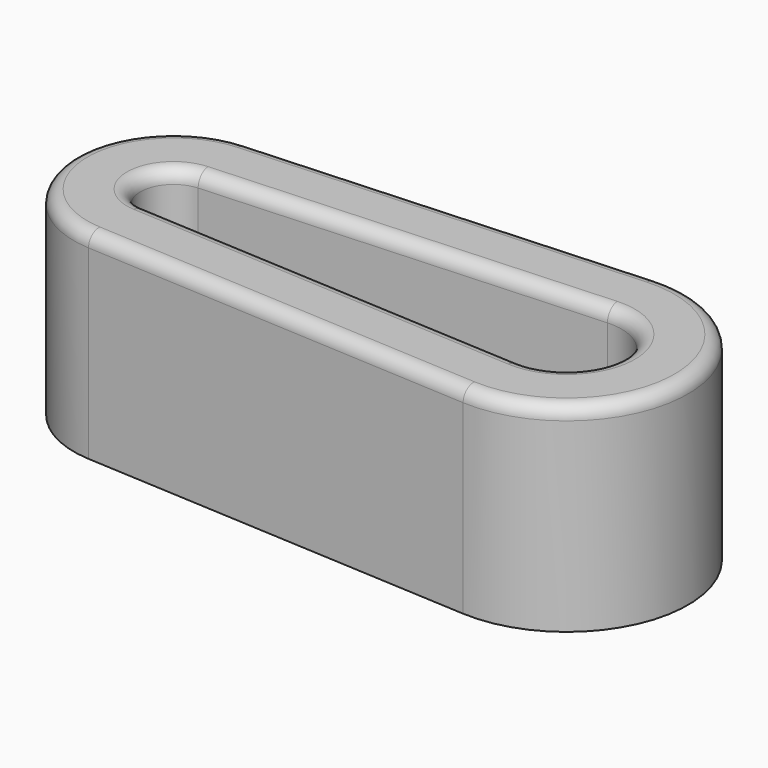
from build123d import *

# Parameters (mm, degrees)
F1_DEPTH = 30
F3_DEPTH = 30
F4_R     = 2


with BuildPart() as f1:
    # F0 (on Top) → F1 (new body)
    with BuildSketch(Plane.XY):
        with BuildLine():
            Line((14.632652, 18.249727), (-44.452963, 14.977043))
            ThreePointArc((-44.452963, 14.977043), (-58.623402, 0), (-44.452963, -14.977043))
            Line((-44.452963, -14.977043), (14.632652, -18.249727))
            ThreePointArc((14.632652, -18.249727), (33.921183, 0), (14.632652, 18.249727))
        make_face()
    extrude(amount=F1_DEPTH)

    # F2 (on face) → F3 (cut)
    with BuildSketch(Plane.XY.offset(30)):
        with BuildLine():
            ThreePointArc((-43.899922, 4.992348), (-48.623402, 0), (-43.899922, -4.992348))
            Line((-43.899922, -4.992348), (15.185693, -8.265031))
            ThreePointArc((15.185693, -8.265031), (23.921183, 0), (15.185693, 8.265031))
            Line((15.185693, 8.265031), (-43.899922, 4.992348))
        make_face()
    extrude(amount=-F3_DEPTH, mode=Mode.SUBTRACT)

    # F4
    f4_edges = [f1.edges().sort_by_distance(p)[0] for p in [
        (-48.623402, 0, 30),
        (23.921183, 0, 30),
        (-14.357115, 6.62869, 30),
        (-14.910155, -16.613385, 30),
        (33.921183, 0, 30),
        (-14.910155, 16.613385, 30),
        (-58.623402, 0, 30),
        (-14.357115, -6.62869, 30),
    ]]
    fillet(f4_edges, radius=F4_R)


solid = f1.part
